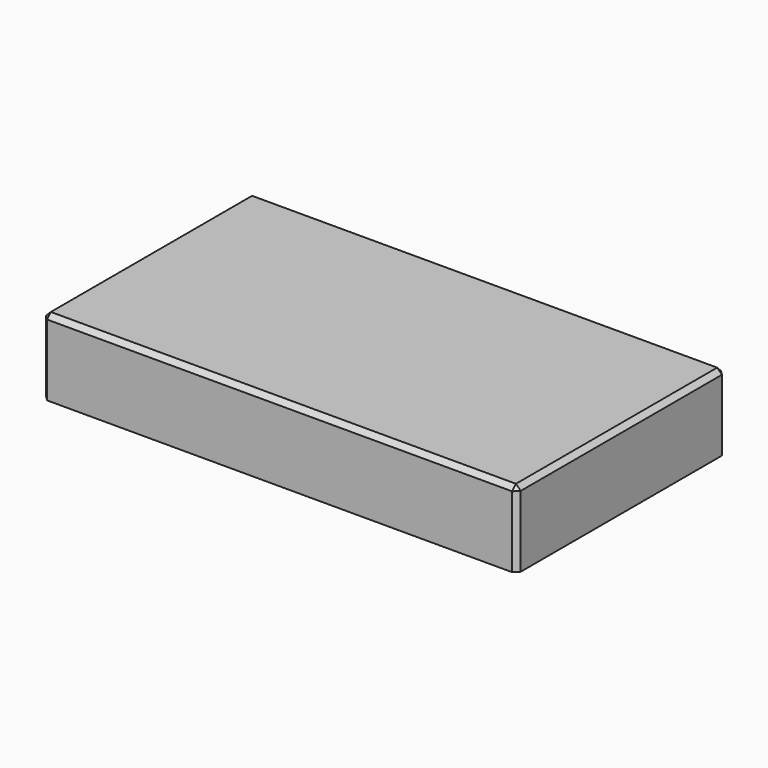
from build123d import *

# Parameters (mm, degrees)
SKETCH_W           = 100
SKETCH_H           = 55
PAD_DEPTH          = 16
THICKNESS_T        = -3
THICKNESS_FACE11_W = 49
THICKNESS_FACE11_H = 94
POCKET_DEPTH       = 1
SKETCH002_W        = 97
SKETCH002_H        = 52
POCKET001_DEPTH    = 3
CHAMFER_SIZE       = 1
SKETCH003_W        = 1.5
SKETCH003_H        = 49
PAD001_DEPTH       = 11
SKETCH004_W        = 1.5
SKETCH004_H        = 46
POCKET002_DEPTH    = 9.5
CHAMFER001_SIZE    = 1.49
SKETCH005_W        = 94
SKETCH005_H        = 1.5
PAD002_DEPTH       = 11
SKETCH006_W        = 91
SKETCH006_H        = 1.5
POCKET003_DEPTH    = 9.5
CHAMFER002_SIZE    = 1.49


with BuildPart() as part:
    # Sketch → Pad (new body)
    with BuildSketch(Plane.XY):
        Rectangle(SKETCH_W, SKETCH_H)
    extrude(amount=PAD_DEPTH)

    # Thickness
    thickness_openings = [part.faces().sort_by_distance(p)[0] for p in [
        (0, 0, 0),
    ]]
    offset(amount=THICKNESS_T, openings=thickness_openings)

    # Thickness Face11 → Pocket (cut)
    with BuildSketch(Plane(origin=(0, 0, 13), x_dir=(0, -1, 0), z_dir=(0, 0, -1))):
        Rectangle(THICKNESS_FACE11_W, THICKNESS_FACE11_H)
    extrude(amount=-POCKET_DEPTH, mode=Mode.SUBTRACT)

    # Sketch002 (on Face4 of Pocket) → Pocket001 (cut)
    with BuildSketch(Plane(origin=(0, 0, 0), x_dir=(1, 0, 0), z_dir=(0, 0, -1))):
        Rectangle(SKETCH002_W, SKETCH002_H)
    extrude(amount=-POCKET001_DEPTH, mode=Mode.SUBTRACT)

    # Chamfer
    chamfer_edges = [part.edges().sort_by_distance(p)[0] for p in [
        (-50, 27.5, 8),
        (-50, -27.5, 8),
        (50, 27.5, 8),
        (50, -27.5, 8),
        (50, 0, 16),
        (0, 27.5, 16),
        (-50, 0, 16),
        (0, -27.5, 16),
    ]]
    chamfer(chamfer_edges, length=CHAMFER_SIZE)

    # Sketch003 (on Face32 of Chamfer) → Pad001 (join)
    with BuildSketch(Plane(origin=(0, 0, 14), x_dir=(1, 0, 0), z_dir=(0, 0, -1))):
        with Locations((-35.25, 0)):
            Rectangle(SKETCH003_W, SKETCH003_H)
        with Locations((-11.75, 0)):
            Rectangle(SKETCH003_W, SKETCH003_H)
    pad001 = extrude(amount=PAD001_DEPTH)

    # Mirrored: Pad001 across Sketch003 V_Axis
    add(pad001.mirror(Plane(origin=(0, 0, 14), x_dir=(0, 0, -1), z_dir=(1, 0, 0))))

    # Sketch004 (on Face26 of Mirrored) → Pocket002 (cut)
    with BuildSketch(Plane(origin=(0, 0, 3), x_dir=(1, 0, 0), z_dir=(0, 0, -1))):
        with Locations((-35.25, 0)):
            Rectangle(SKETCH004_W, SKETCH004_H)
        with Locations((-11.75, 0)):
            Rectangle(SKETCH004_W, SKETCH004_H)
    pocket002 = extrude(amount=-POCKET002_DEPTH, mode=Mode.SUBTRACT)

    # Mirrored001: Pocket002 across Sketch004 V_Axis
    add(pocket002.mirror(Plane(origin=(0, 0, 3), x_dir=(0, 0, -1), z_dir=(1, 0, 0))), mode=Mode.SUBTRACT)

    # Chamfer001
    chamfer001_edges = [part.edges().sort_by_distance(p)[0] for p in [
        (-35.25, -23, 3),
        (-11.75, -23, 3),
        (11.75, -23, 3),
        (35.25, -23, 3),
        (35.25, 23, 3),
        (11.75, 23, 3),
        (-11.75, 23, 3),
        (-35.25, 23, 3),
    ]]
    chamfer(chamfer001_edges, length=CHAMFER001_SIZE)

    # Sketch005 (on Face71 of Chamfer001) → Pad002 (join)
    with BuildSketch(Plane(origin=(0, 0, 14), x_dir=(1, 0, 0), z_dir=(0, 0, -1))):
        Rectangle(SKETCH005_W, SKETCH005_H)
    extrude(amount=PAD002_DEPTH)

    # Sketch006 (on Face17 of Pad002) → Pocket003 (cut)
    with BuildSketch(Plane(origin=(0, 0, 3), x_dir=(1, 0, 0), z_dir=(0, 0, -1))):
        Rectangle(SKETCH006_W, SKETCH006_H)
    extrude(amount=-POCKET003_DEPTH, mode=Mode.SUBTRACT)

    # Chamfer002
    chamfer002_edges = [part.edges().sort_by_distance(p)[0] for p in [
        (45.5, 0, 3),
        (-45.5, 0, 3),
    ]]
    chamfer(chamfer002_edges, length=CHAMFER002_SIZE)


solid = part.part
